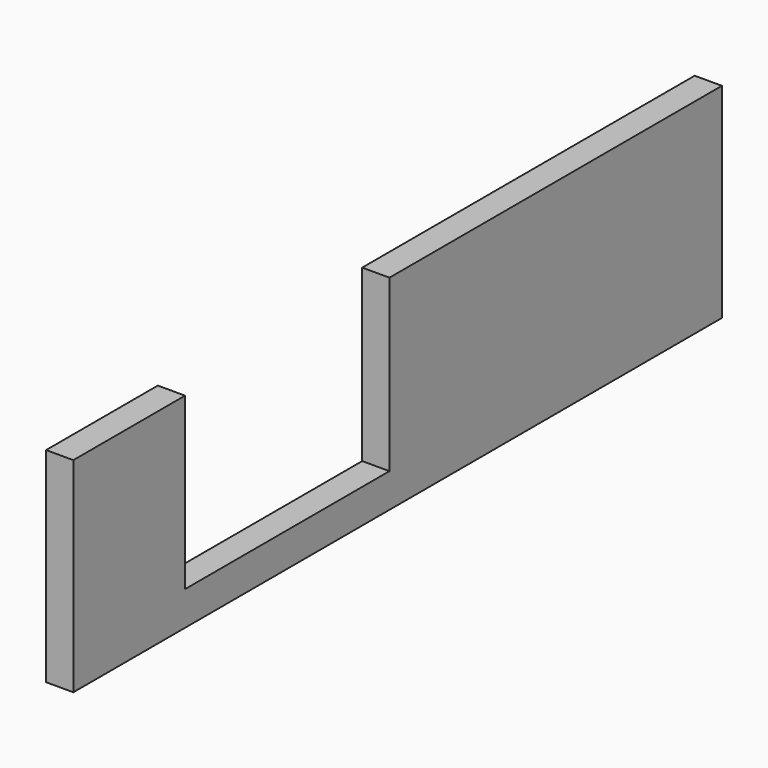
from build123d import *

# Parameters (mm, degrees)
F0_W     = 476
F0_H     = 120
F1_DEPTH = 8
F2_W     = 150
F2_H     = 100
F3_DEPTH = 16.001


with BuildPart() as f1:
    # F0 (on Right) → F1 (new body, symmetric)
    with BuildSketch(Plane.YZ):
        Rectangle(F0_W, F0_H)
    extrude(amount=F1_DEPTH, both=True)

    # F2 (on face) → F3 (cut, through all)
    with BuildSketch(Plane.YZ.offset(8)):
        with Locations((-81, 10)):
            Rectangle(F2_W, F2_H)
    extrude(amount=-F3_DEPTH, mode=Mode.SUBTRACT)


solid = f1.part
